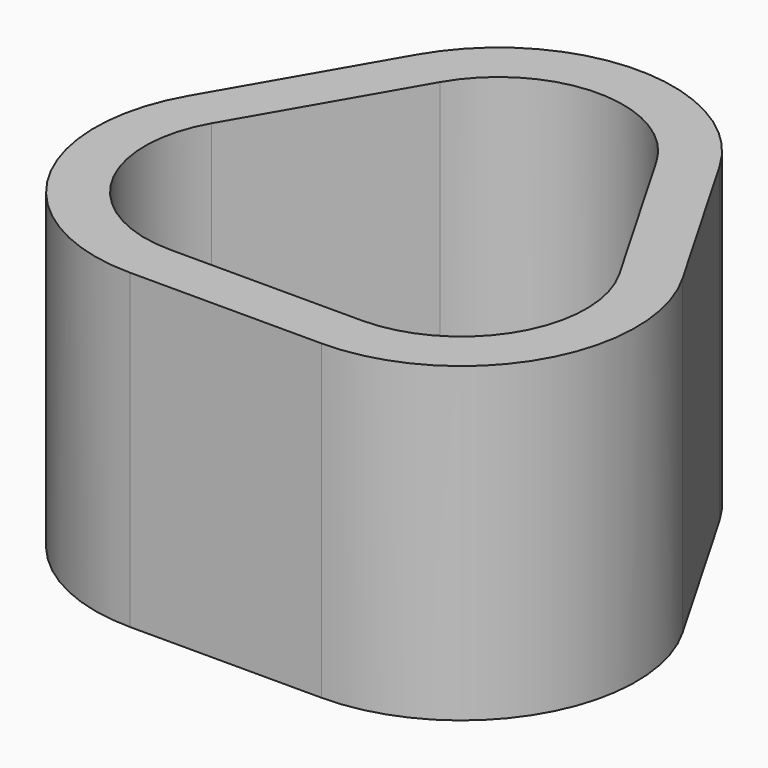
from build123d import *

# Parameters (mm, degrees)
F1_DEPTH = 25


with BuildPart() as f1:
    # F0 (on Top) → F1 (new body)
    with BuildSketch(Plane.XY):
        with BuildLine():
            ThreePointArc((7.679492, -4), (19.803848, 3), (19.803848, 17))
            Line((19.803848, 17), (12.124356, 30.30127))
            ThreePointArc((12.124356, 30.30127), (0, 37.30127), (-12.124356, 30.30127))
            Line((-12.124356, 30.30127), (-19.803848, 17))
            ThreePointArc((-19.803848, 17), (-19.803848, 3), (-7.679492, -4))
            Line((-7.679492, -4), (0, -4))
            Line((0, -4), (7.679492, -4))
        make_face()
        with BuildLine():
            Line((7.679492, 0), (0, 0))
            Line((0, 0), (-7.679492, 0))
            ThreePointArc((-7.679492, 0), (-16.339746, 5), (-16.339746, 15))
            Line((-16.339746, 15), (-8.660254, 28.30127))
            ThreePointArc((-8.660254, 28.30127), (0, 33.30127), (8.660254, 28.30127))
            Line((8.660254, 28.30127), (16.339746, 15))
            ThreePointArc((16.339746, 15), (16.339746, 5), (7.679492, 0))
        make_face(mode=Mode.SUBTRACT)
    extrude(amount=F1_DEPTH)


solid = f1.part
